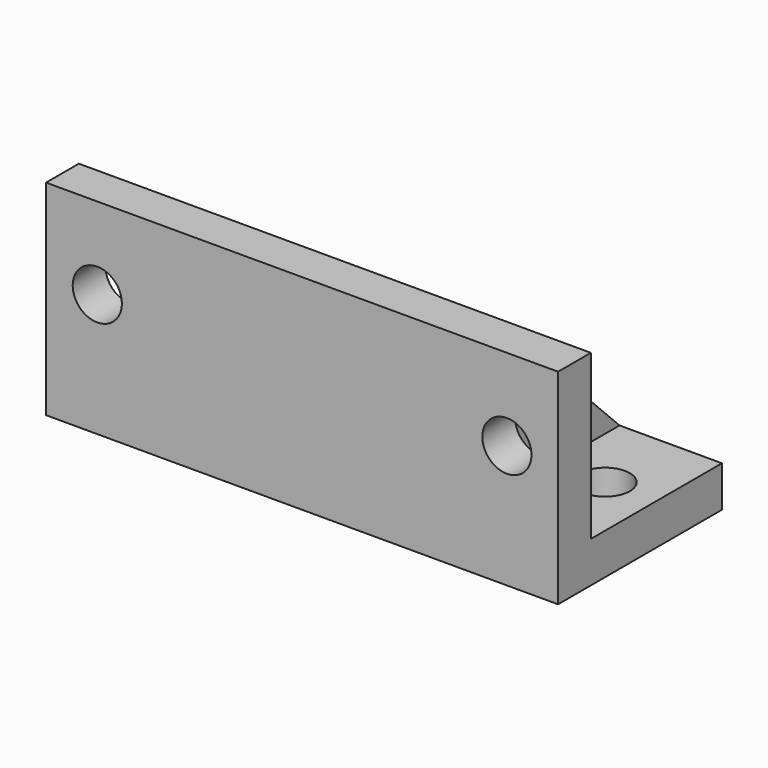
from build123d import *

# Parameters (mm, degrees)
SKETCH_W        = 50
SKETCH_H        = 20
PAD_DEPTH       = 20
SKETCH001_W     = 10
SKETCH001_H     = 16
POCKET_DEPTH    = 16
POCKET001_DEPTH = 30
SKETCH003_R     = 2.4
POCKET002_DEPTH = 4
SKETCH004_R     = 2.4
POCKET003_DEPTH = 4


with BuildPart() as part:
    # Sketch → Pad (new body)
    with BuildSketch(Plane.XY):
        with Locations((25, 10)):
            Rectangle(SKETCH_W, SKETCH_H)
    extrude(amount=PAD_DEPTH)

    # Sketch001 → Pocket (cut)
    with BuildSketch(Plane.XY.offset(20)):
        with Locations((5, 12)):
            Rectangle(SKETCH001_W, SKETCH001_H)
        with Locations((45, 12)):
            Rectangle(SKETCH001_W, SKETCH001_H)
    extrude(amount=-POCKET_DEPTH, mode=Mode.SUBTRACT)

    # Sketch002 → Pocket001 (cut)
    with BuildSketch(Plane.YZ.offset(40)):
        Polygon((20, 4), (4, 20), (20, 20), align=None)
    extrude(amount=-POCKET001_DEPTH, mode=Mode.SUBTRACT)

    # Sketch003 → Pocket002 (cut)
    with BuildSketch(Plane(origin=(0, 4, 0), x_dir=(-1, 0, 0), z_dir=(0, 1, 0))):
        with Locations((-45, 12)):
            Circle(SKETCH003_R)
        with Locations((-5, 12)):
            Circle(SKETCH003_R)
    extrude(amount=-POCKET002_DEPTH, mode=Mode.SUBTRACT)

    # Sketch004 → Pocket003 (cut)
    with BuildSketch(Plane.XY.offset(4)):
        with Locations((5, 12)):
            Circle(SKETCH004_R)
        with Locations((45, 12)):
            Circle(SKETCH004_R)
    extrude(amount=-POCKET003_DEPTH, mode=Mode.SUBTRACT)


solid = part.part
